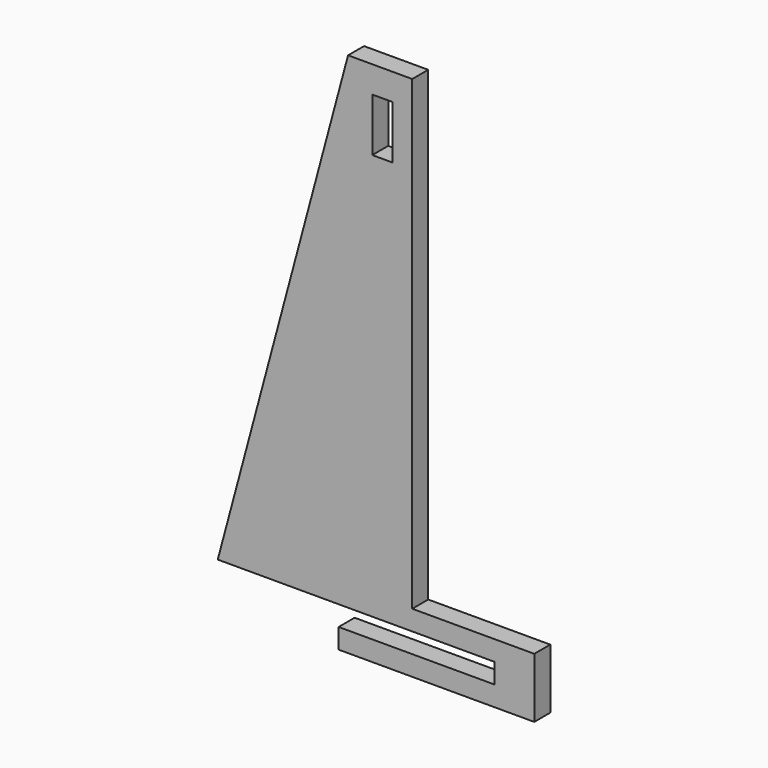
from build123d import *

# Parameters (mm, degrees)
F0_W     = 19.05
F0_H     = 50.8
F1_DEPTH = 19.05


with BuildPart() as f1:
    # F0 (on Front) → F1 (new body)
    with BuildSketch(Plane.XZ):
        Polygon((-238.452145, -417.078608), (-238.452145, 27.421392), (-299.630938, 27.421392), (-423.838787, -436.128608), (-160.245545, -436.128608), (-160.245545, -455.178608), (-308.630615, -455.178608), (-308.630615, -474.228608), (-122.145545, -474.228608), (-122.145545, -417.078608), align=None)
        with Locations((-267.027145, -23.378608)):
            Rectangle(F0_W, F0_H, mode=Mode.SUBTRACT)
    extrude(amount=F1_DEPTH)


solid = f1.part
